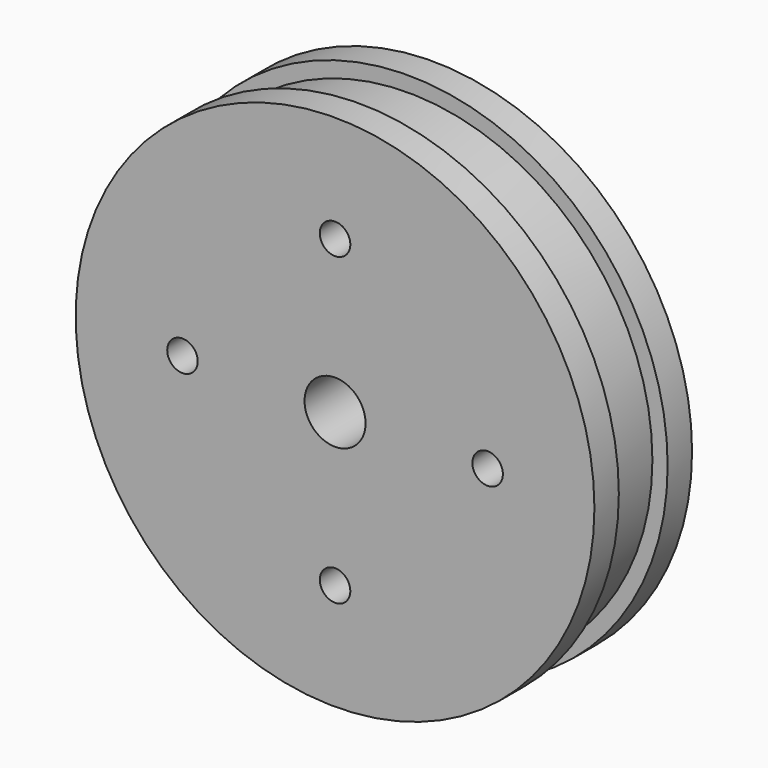
from build123d import *

# Parameters (mm, degrees)
F0_R     = 53.975
F1_DEPTH = 6.35
F2_R     = 50.8
F3_DEPTH = 12.7
F4_R     = 53.975
F5_DEPTH = 6.35
F7_D     = 6.35
F8_R     = 6.35
F9_DEPTH = 25.401


with BuildPart() as f1:
    # F0 (on Front) → F1 (new body)
    with BuildSketch(Plane.XZ):
        Circle(F0_R)
    extrude(amount=F1_DEPTH)

    # F2 (on face) → F3 (join)
    with BuildSketch(Plane.XZ.offset(6.35)):
        Circle(F2_R)
    extrude(amount=F3_DEPTH)

    # F4 (on face) → F5 (join)
    with BuildSketch(Plane.XZ.offset(19.05)):
        Circle(F4_R)
    extrude(amount=F5_DEPTH)

    # F7 (through all)
    with Locations(Plane.XZ.offset(25.4)):
        with Locations((0, 31.75), (31.75, 0), (0, -31.75), (-31.75, 0)):
            Hole(F7_D / 2)

    # F8 (on face) → F9 (cut, through all)
    with BuildSketch(Plane.XZ.offset(25.4)):
        Circle(F8_R)
    extrude(amount=-F9_DEPTH, mode=Mode.SUBTRACT)


solid = f1.part
